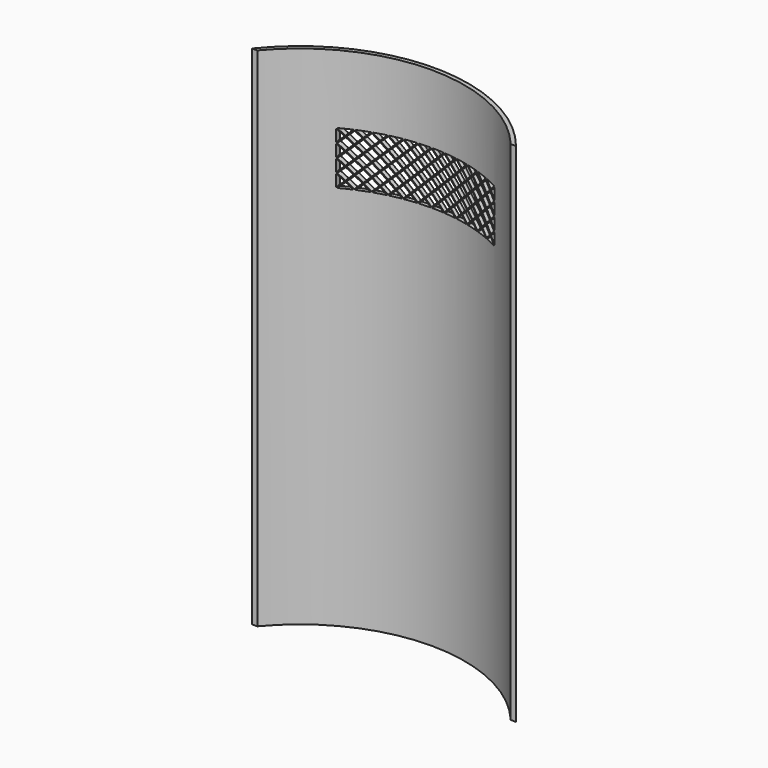
from build123d import *

# Parameters (mm, degrees)
F1_DEPTH = 1219.2
F3_DEPTH = 254


with BuildPart() as f1:
    # F0 (on Top) → F1 (new body)
    with BuildSketch(Plane.XY):
        with BuildLine():
            ThreePointArc((-304.8, 0), (0, 142.7606835361), (304.8, 0))
            Line((304.8, 0), (317.5, 0))
            ThreePointArc((317.5, 0), (0, 152.598389077), (-317.5, 0))
            Line((-317.5, 0), (-304.8, 0))
        make_face()
    extrude(amount=F1_DEPTH)

    # F2 (on Front) → F3 (cut)
    with BuildSketch(Plane.XZ):
        Polygon((46.0375, 974.725), (31.75, 989.0125), (17.4625, 974.725), (31.75, 960.4375), align=None)
        Polygon((141.2875, 1038.225), (127, 1052.5125), (112.7125, 1038.225), (127, 1023.9375), align=None)
        Polygon((77.7875, 1006.475), (63.5, 1020.7625), (49.2125, 1006.475), (63.5, 992.1875), align=None)
        Polygon((160.3375, 927.1), (188.9125, 927.1), (174.625, 941.3875), align=None)
        Polygon((46.0375, 1006.475), (31.75, 1020.7625), (17.4625, 1006.475), (31.75, 992.1875), align=None)
        Polygon((-125.4125, 927.1), (-96.8375, 927.1), (-111.125, 941.3875), align=None)
        Polygon((142.875, 1039.8125), (157.1625, 1054.1), (128.5875, 1054.1), align=None)
        Polygon((-49.2125, 1006.475), (-63.5, 1020.7625), (-77.7875, 1006.475), (-63.5, 992.1875), align=None)
        Polygon((30.1625, 958.85), (15.875, 973.1375), (1.5875, 958.85), (15.875, 944.5625), align=None)
        Polygon((-17.4625, 1006.475), (-31.75, 1020.7625), (-46.0375, 1006.475), (-31.75, 992.1875), align=None)
        Polygon((-65.0875, 958.85), (-79.375, 973.1375), (-93.6625, 958.85), (-79.375, 944.5625), align=None)
        Polygon((-17.4625, 942.975), (-31.75, 957.2625), (-46.0375, 942.975), (-31.75, 928.6875), align=None)
        Polygon((-30.1625, 927.1), (-1.5875, 927.1), (-15.875, 941.3875), align=None)
        Polygon((-160.3375, 958.85), (-174.625, 973.1375), (-188.9125, 958.85), (-174.625, 944.5625), align=None)
        Polygon((-111.125, 1039.8125), (-96.8375, 1054.1), (-125.4125, 1054.1), align=None)
        Polygon((77.7875, 974.725), (63.5, 989.0125), (49.2125, 974.725), (63.5, 960.4375), align=None)
        Polygon((128.5875, 927.1), (157.1625, 927.1), (142.875, 941.3875), align=None)
        Polygon((95.25, 928.6875), (109.5375, 942.975), (95.25, 957.2625), (80.9625, 942.975), align=None)
        Polygon((-128.5875, 958.85), (-142.875, 973.1375), (-157.1625, 958.85), (-142.875, 944.5625), align=None)
        Polygon((-157.1625, 927.1), (-128.5875, 927.1), (-142.875, 941.3875), align=None)
        Polygon((-47.625, 1039.8125), (-33.3375, 1054.1), (-61.9125, 1054.1), align=None)
        Polygon((173.0375, 1038.225), (158.75, 1052.5125), (144.4625, 1038.225), (158.75, 1023.9375), align=None)
        Polygon((46.0375, 1038.225), (31.75, 1052.5125), (17.4625, 1038.225), (31.75, 1023.9375), align=None)
        Polygon((109.5375, 974.725), (95.25, 989.0125), (80.9625, 974.725), (95.25, 960.4375), align=None)
        Polygon((127, 960.4375), (141.2875, 974.725), (127, 989.0125), (112.7125, 974.725), align=None)
        Polygon((-176.2125, 974.725), (-190.5, 989.0125), (-190.5, 960.4375), align=None)
        Polygon((174.625, 1039.8125), (188.9125, 1054.1), (160.3375, 1054.1), align=None)
        Polygon((141.2875, 1006.475), (127, 1020.7625), (112.7125, 1006.475), (127, 992.1875), align=None)
        Polygon((-160.3375, 990.6), (-174.625, 1004.8875), (-188.9125, 990.6), (-174.625, 976.3125), align=None)
        Polygon((-93.6625, 927.1), (-65.0875, 927.1), (-79.375, 941.3875), align=None)
        Polygon((-1.5875, 990.6), (-15.875, 1004.8875), (-30.1625, 990.6), (-15.875, 976.3125), align=None)
        Polygon((61.9125, 990.6), (47.625, 1004.8875), (33.3375, 990.6), (47.625, 976.3125), align=None)
        Polygon((77.7875, 942.975), (63.5, 957.2625), (49.2125, 942.975), (63.5, 928.6875), align=None)
        Polygon((158.75, 928.6875), (173.0375, 942.975), (158.75, 957.2625), (144.4625, 942.975), align=None)
        Polygon((-144.4625, 1006.475), (-158.75, 1020.7625), (-173.0375, 1006.475), (-158.75, 992.1875), align=None)
        Polygon((-65.0875, 1022.35), (-79.375, 1036.6375), (-93.6625, 1022.35), (-79.375, 1008.0625), align=None)
        Polygon((157.1625, 1022.35), (142.875, 1036.6375), (128.5875, 1022.35), (142.875, 1008.0625), align=None)
        Polygon((-176.2125, 942.975), (-190.5, 957.2625), (-190.5, 928.6875), align=None)
        Polygon((190.5, 960.4375), (190.5, 989.0125), (176.2125, 974.725), align=None)
        Polygon((14.2875, 1006.475), (0, 1020.7625), (-14.2875, 1006.475), (0, 992.1875), align=None)
        Polygon((-33.3375, 958.85), (-47.625, 973.1375), (-61.9125, 958.85), (-47.625, 944.5625), align=None)
        Polygon((-144.4625, 942.975), (-158.75, 957.2625), (-173.0375, 942.975), (-158.75, 928.6875), align=None)
        Polygon((111.125, 944.5625), (125.4125, 958.85), (111.125, 973.1375), (96.8375, 958.85), align=None)
        Polygon((158.75, 992.1875), (173.0375, 1006.475), (158.75, 1020.7625), (144.4625, 1006.475), align=None)
        Polygon((93.6625, 990.6), (79.375, 1004.8875), (65.0875, 990.6), (79.375, 976.3125), align=None)
        Polygon((174.625, 1008.0625), (188.9125, 1022.35), (174.625, 1036.6375), (160.3375, 1022.35), align=None)
        Polygon((174.625, 976.3125), (188.9125, 990.6), (174.625, 1004.8875), (160.3375, 990.6), align=None)
        Polygon((61.9125, 1022.35), (47.625, 1036.6375), (33.3375, 1022.35), (47.625, 1008.0625), align=None)
        Polygon((30.1625, 1022.35), (15.875, 1036.6375), (1.5875, 1022.35), (15.875, 1008.0625), align=None)
        Polygon((-33.3375, 1022.35), (-47.625, 1036.6375), (-61.9125, 1022.35), (-47.625, 1008.0625), align=None)
        Polygon((79.375, 1039.8125), (93.6625, 1054.1), (65.0875, 1054.1), align=None)
        Polygon((-80.9625, 1006.475), (-95.25, 1020.7625), (-109.5375, 1006.475), (-95.25, 992.1875), align=None)
        Polygon((127, 928.6875), (141.2875, 942.975), (127, 957.2625), (112.7125, 942.975), align=None)
        Polygon((-17.4625, 1038.225), (-31.75, 1052.5125), (-46.0375, 1038.225), (-31.75, 1023.9375), align=None)
        Polygon((109.5375, 1006.475), (95.25, 1020.7625), (80.9625, 1006.475), (95.25, 992.1875), align=None)
        Polygon((47.625, 1039.8125), (61.9125, 1054.1), (33.3375, 1054.1), align=None)
        Polygon((-80.9625, 1038.225), (-95.25, 1052.5125), (-109.5375, 1038.225), (-95.25, 1023.9375), align=None)
        Polygon((-128.5875, 990.6), (-142.875, 1004.8875), (-157.1625, 990.6), (-142.875, 976.3125), align=None)
        Polygon((14.2875, 1038.225), (0, 1052.5125), (-14.2875, 1038.225), (0, 1023.9375), align=None)
        Polygon((-65.0875, 990.6), (-79.375, 1004.8875), (-93.6625, 990.6), (-79.375, 976.3125), align=None)
        Polygon((93.6625, 1022.35), (79.375, 1036.6375), (65.0875, 1022.35), (79.375, 1008.0625), align=None)
        Polygon((33.3375, 927.1), (61.9125, 927.1), (47.625, 941.3875), align=None)
        Polygon((-80.9625, 974.725), (-95.25, 989.0125), (-109.5375, 974.725), (-95.25, 960.4375), align=None)
        Polygon((-174.625, 1039.8125), (-160.3375, 1054.1), (-188.9125, 1054.1), align=None)
        Polygon((111.125, 1039.8125), (125.4125, 1054.1), (96.8375, 1054.1), align=None)
        Polygon((-49.2125, 942.975), (-63.5, 957.2625), (-77.7875, 942.975), (-63.5, 928.6875), align=None)
        Polygon((-96.8375, 990.6), (-111.125, 1004.8875), (-125.4125, 990.6), (-111.125, 976.3125), align=None)
        Polygon((-96.8375, 958.85), (-111.125, 973.1375), (-125.4125, 958.85), (-111.125, 944.5625), align=None)
        Polygon((174.625, 944.5625), (188.9125, 958.85), (174.625, 973.1375), (160.3375, 958.85), align=None)
        Polygon((-188.9125, 927.1), (-160.3375, 927.1), (-174.625, 941.3875), align=None)
        Polygon((125.4125, 990.6), (111.125, 1004.8875), (96.8375, 990.6), (111.125, 976.3125), align=None)
        Polygon((-128.5875, 1022.35), (-142.875, 1036.6375), (-157.1625, 1022.35), (-142.875, 1008.0625), align=None)
        Polygon((-96.8375, 1022.35), (-111.125, 1036.6375), (-125.4125, 1022.35), (-111.125, 1008.0625), align=None)
        Polygon((46.0375, 942.975), (31.75, 957.2625), (17.4625, 942.975), (31.75, 928.6875), align=None)
        Polygon((190.5, 1023.9375), (190.5, 1052.5125), (176.2125, 1038.225), align=None)
        Polygon((-176.2125, 1038.225), (-190.5, 1052.5125), (-190.5, 1023.9375), align=None)
        Polygon((-176.2125, 1006.475), (-190.5, 1020.7625), (-190.5, 992.1875), align=None)
        Polygon((-144.4625, 1038.225), (-158.75, 1052.5125), (-173.0375, 1038.225), (-158.75, 1023.9375), align=None)
        Polygon((15.875, 1039.8125), (30.1625, 1054.1), (1.5875, 1054.1), align=None)
        Polygon((-1.5875, 1022.35), (-15.875, 1036.6375), (-30.1625, 1022.35), (-15.875, 1008.0625), align=None)
        Polygon((-112.7125, 942.975), (-127, 957.2625), (-141.2875, 942.975), (-127, 928.6875), align=None)
        Polygon((158.75, 960.4375), (173.0375, 974.725), (158.75, 989.0125), (144.4625, 974.725), align=None)
        Polygon((96.8375, 927.1), (125.4125, 927.1), (111.125, 941.3875), align=None)
        Polygon((-49.2125, 974.725), (-63.5, 989.0125), (-77.7875, 974.725), (-63.5, 960.4375), align=None)
        Polygon((1.5875, 927.1), (30.1625, 927.1), (15.875, 941.3875), align=None)
        Polygon((30.1625, 990.6), (15.875, 1004.8875), (1.5875, 990.6), (15.875, 976.3125), align=None)
        Polygon((-160.3375, 1022.35), (-174.625, 1036.6375), (-188.9125, 1022.35), (-174.625, 1008.0625), align=None)
        Polygon((190.5, 928.6875), (190.5, 957.2625), (176.2125, 942.975), align=None)
        Polygon((-142.875, 1039.8125), (-128.5875, 1054.1), (-157.1625, 1054.1), align=None)
        Polygon((-15.875, 1039.8125), (-1.5875, 1054.1), (-30.1625, 1054.1), align=None)
        Polygon((125.4125, 1022.35), (111.125, 1036.6375), (96.8375, 1022.35), (111.125, 1008.0625), align=None)
        Polygon((77.7875, 1038.225), (63.5, 1052.5125), (49.2125, 1038.225), (63.5, 1023.9375), align=None)
        Polygon((-49.2125, 1038.225), (-63.5, 1052.5125), (-77.7875, 1038.225), (-63.5, 1023.9375), align=None)
        Polygon((-112.7125, 1006.475), (-127, 1020.7625), (-141.2875, 1006.475), (-127, 992.1875), align=None)
        Polygon((93.6625, 958.85), (79.375, 973.1375), (65.0875, 958.85), (79.375, 944.5625), align=None)
        Polygon((14.2875, 974.725), (0, 989.0125), (-14.2875, 974.725), (0, 960.4375), align=None)
        Polygon((-1.5875, 958.85), (-15.875, 973.1375), (-30.1625, 958.85), (-15.875, 944.5625), align=None)
        Polygon((-61.9125, 927.1), (-33.3375, 927.1), (-47.625, 941.3875), align=None)
        Polygon((-33.3375, 990.6), (-47.625, 1004.8875), (-61.9125, 990.6), (-47.625, 976.3125), align=None)
        Polygon((65.0875, 927.1), (93.6625, 927.1), (79.375, 941.3875), align=None)
        Polygon((-80.9625, 942.975), (-95.25, 957.2625), (-109.5375, 942.975), (-95.25, 928.6875), align=None)
        Polygon((109.5375, 1038.225), (95.25, 1052.5125), (80.9625, 1038.225), (95.25, 1023.9375), align=None)
        Polygon((-112.7125, 1038.225), (-127, 1052.5125), (-141.2875, 1038.225), (-127, 1023.9375), align=None)
        Polygon((-79.375, 1039.8125), (-65.0875, 1054.1), (-93.6625, 1054.1), align=None)
        Polygon((142.875, 976.3125), (157.1625, 990.6), (142.875, 1004.8875), (128.5875, 990.6), align=None)
        Polygon((142.875, 944.5625), (157.1625, 958.85), (142.875, 973.1375), (128.5875, 958.85), align=None)
        Polygon((-17.4625, 974.725), (-31.75, 989.0125), (-46.0375, 974.725), (-31.75, 960.4375), align=None)
        Polygon((190.5, 992.1875), (190.5, 1020.7625), (176.2125, 1006.475), align=None)
        Polygon((61.9125, 958.85), (47.625, 973.1375), (33.3375, 958.85), (47.625, 944.5625), align=None)
        Polygon((14.2875, 942.975), (0, 957.2625), (-14.2875, 942.975), (0, 928.6875), align=None)
        Polygon((-144.4625, 974.725), (-158.75, 989.0125), (-173.0375, 974.725), (-158.75, 960.4375), align=None)
        Polygon((-112.7125, 974.725), (-127, 989.0125), (-141.2875, 974.725), (-127, 960.4375), align=None)
    extrude(amount=-F3_DEPTH, mode=Mode.SUBTRACT)


solid = f1.part
